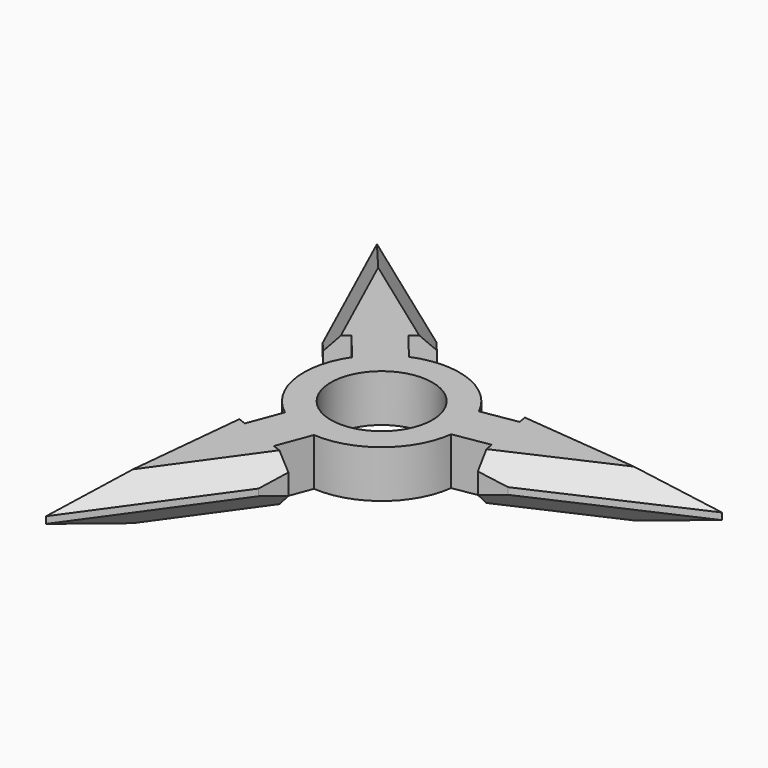
from build123d import *

# Parameters (mm, degrees)
F0_R     = 7.5
F1_DEPTH = 7
F2_SIZE  = 3


with BuildPart() as f1:
    # F0 (on Top) → F1 (new body)
    with BuildSketch(Plane.XY):
        with BuildLine():
            ThreePointArc((-10.511182, -17.658973), (-13.748709, -16.949262), (-16.649365, -15.345681))
            Line((-16.649365, -15.345681), (-18.546154, -20.3787))
            Line((-18.546154, -20.3787), (-21.615246, -19.222054))
            Line((-21.615246, -19.222054), (-23.025871, -22.965066))
            Line((-23.025871, -22.965066), (-25.562697, -48.296984))
            Line((-25.562697, -48.296984), (-10.749504, -27.591649))
            Line((-10.749504, -27.591649), (-9.338879, -23.848637))
            Line((-9.338879, -23.848637), (-12.407971, -22.691992))
            Line((-12.407971, -22.691992), (-10.511182, -17.658973))
        make_face()
        with BuildLine():
            Line((5.95703, -0.287253), (0.649913, -1.161095))
            ThreePointArc((0.649913, -1.161095), (1.513876, -3.608894), (1.806839, -6.188103))
            ThreePointArc((1.806839, -6.188103), (1.784015, -6.912271), (1.715636, -7.633564))
            Line((1.715636, -7.633564), (7.022752, -6.759722))
            Line((7.022752, -6.759722), (7.555614, -9.995956))
            Line((7.555614, -9.995956), (11.502469, -9.346088))
            Line((11.502469, -9.346088), (34.708967, 1.122916))
            Line((34.708967, 1.122916), (9.371024, 3.598849))
            Line((9.371024, 3.598849), (5.424169, 2.948981))
            Line((5.424169, 2.948981), (5.95703, -0.287253))
        make_face()
        with BuildLine():
            Line((-22.628543, 4.414934), (-19.218215, 0.255757))
            ThreePointArc((-19.218215, 0.255757), (-16.984824, 2.704683), (-14.145754, 4.414934))
            Line((-14.145754, 4.414934), (-17.556082, 8.574111))
            Line((-17.556082, 8.574111), (-15.019851, 10.6537))
            Line((-15.019851, 10.6537), (-17.556082, 13.746843))
            Line((-17.556082, 13.746843), (-38.225754, 28.609758))
            Line((-38.225754, 28.609758), (-27.701004, 5.428489))
            Line((-27.701004, 5.428489), (-25.164773, 2.335346))
            Line((-25.164773, 2.335346), (-22.628543, 4.414934))
        make_face()
        with BuildLine():
            Line((-22.628543, 4.414934), (-19.218215, 0.255757))
            ThreePointArc((-19.218215, 0.255757), (-16.984824, 2.704683), (-14.145754, 4.414934))
            Line((-14.145754, 4.414934), (-17.556082, 8.574111))
            Line((-17.556082, 8.574111), (-15.019851, 10.6537))
            Line((-15.019851, 10.6537), (-17.556082, 13.746843))
            Line((-17.556082, 13.746843), (-38.225754, 28.609758))
            Line((-38.225754, 28.609758), (-27.701004, 5.428489))
            Line((-27.701004, 5.428489), (-25.164773, 2.335346))
            Line((-25.164773, 2.335346), (-22.628543, 4.414934))
        make_face()
        with BuildLine():
            Line((-22.628543, 4.414934), (-19.218215, 0.255757))
            ThreePointArc((-19.218215, 0.255757), (-16.984824, 2.704683), (-14.145754, 4.414934))
            Line((-14.145754, 4.414934), (-17.556082, 8.574111))
            Line((-17.556082, 8.574111), (-15.019851, 10.6537))
            Line((-15.019851, 10.6537), (-17.556082, 13.746843))
            Line((-17.556082, 13.746843), (-38.225754, 28.609758))
            Line((-38.225754, 28.609758), (-27.701004, 5.428489))
            Line((-27.701004, 5.428489), (-25.164773, 2.335346))
            Line((-25.164773, 2.335346), (-22.628543, 4.414934))
        make_face()
        with BuildLine():
            Line((-22.628543, 4.414934), (-19.218215, 0.255757))
            ThreePointArc((-19.218215, 0.255757), (-16.984824, 2.704683), (-14.145754, 4.414934))
            Line((-14.145754, 4.414934), (-17.556082, 8.574111))
            Line((-17.556082, 8.574111), (-15.019851, 10.6537))
            Line((-15.019851, 10.6537), (-17.556082, 13.746843))
            Line((-17.556082, 13.746843), (-38.225754, 28.609758))
            Line((-38.225754, 28.609758), (-27.701004, 5.428489))
            Line((-27.701004, 5.428489), (-25.164773, 2.335346))
            Line((-25.164773, 2.335346), (-22.628543, 4.414934))
        make_face()
        with BuildLine():
            ThreePointArc((-14.145754, 4.414934), (-16.984824, 2.704683), (-19.218215, 0.255757))
            ThreePointArc((-19.218215, 0.255757), (-21.040372, -8.056475), (-16.649365, -15.345681))
            ThreePointArc((-16.649365, -15.345681), (-13.748709, -16.949262), (-10.511182, -17.658973))
            ThreePointArc((-10.511182, -17.658973), (-2.401499, -15.08089), (1.715636, -7.633564))
            ThreePointArc((1.715636, -7.633564), (1.784015, -6.912271), (1.806839, -6.188103))
            ThreePointArc((1.806839, -6.188103), (1.513876, -3.608894), (0.649913, -1.161095))
            ThreePointArc((0.649913, -1.161095), (-5.637613, 4.573055), (-14.145754, 4.414934))
        make_face()
        with Locations((-9.693161, -6.188103)):
            Circle(F0_R, mode=Mode.SUBTRACT)
        with BuildLine():
            ThreePointArc((-10.511182, -17.658973), (-13.748709, -16.949262), (-16.649365, -15.345681))
            Line((-16.649365, -15.345681), (-18.546154, -20.3787))
            Line((-18.546154, -20.3787), (-21.615246, -19.222054))
            Line((-21.615246, -19.222054), (-23.025871, -22.965066))
            Line((-23.025871, -22.965066), (-25.562697, -48.296984))
            Line((-25.562697, -48.296984), (-10.749504, -27.591649))
            Line((-10.749504, -27.591649), (-9.338879, -23.848637))
            Line((-9.338879, -23.848637), (-12.407971, -22.691992))
            Line((-12.407971, -22.691992), (-10.511182, -17.658973))
        make_face()
        with BuildLine():
            ThreePointArc((-14.145754, 4.414934), (-16.984824, 2.704683), (-19.218215, 0.255757))
            ThreePointArc((-19.218215, 0.255757), (-21.040372, -8.056475), (-16.649365, -15.345681))
            ThreePointArc((-16.649365, -15.345681), (-13.748709, -16.949262), (-10.511182, -17.658973))
            ThreePointArc((-10.511182, -17.658973), (-2.401499, -15.08089), (1.715636, -7.633564))
            ThreePointArc((1.715636, -7.633564), (1.784015, -6.912271), (1.806839, -6.188103))
            ThreePointArc((1.806839, -6.188103), (1.513876, -3.608894), (0.649913, -1.161095))
            ThreePointArc((0.649913, -1.161095), (-5.637613, 4.573055), (-14.145754, 4.414934))
        make_face()
        with Locations((-9.693161, -6.188103)):
            Circle(F0_R, mode=Mode.SUBTRACT)
        with BuildLine():
            ThreePointArc((-14.145754, 4.414934), (-16.984824, 2.704683), (-19.218215, 0.255757))
            ThreePointArc((-19.218215, 0.255757), (-21.040372, -8.056475), (-16.649365, -15.345681))
            ThreePointArc((-16.649365, -15.345681), (-13.748709, -16.949262), (-10.511182, -17.658973))
            ThreePointArc((-10.511182, -17.658973), (-2.401499, -15.08089), (1.715636, -7.633564))
            ThreePointArc((1.715636, -7.633564), (1.784015, -6.912271), (1.806839, -6.188103))
            ThreePointArc((1.806839, -6.188103), (1.513876, -3.608894), (0.649913, -1.161095))
            ThreePointArc((0.649913, -1.161095), (-5.637613, 4.573055), (-14.145754, 4.414934))
        make_face()
        with Locations((-9.693161, -6.188103)):
            Circle(F0_R, mode=Mode.SUBTRACT)
    extrude(amount=F1_DEPTH)

    # F2
    f2_edges = [f1.edges().sort_by_distance(p)[0] for p in [
        (22.039996, 2.360883, 0),
        (23.105718, -4.111586, 0),
        (22.039996, 2.360883, 7),
        (-18.1561, -37.944317, 0),
        (-24.294284, -35.631025, 0),
        (-32.963379, 17.019123, 0),
        (-27.890918, 21.1783, 0),
        (-18.1561, -37.944317, 7),
        (-24.294284, -35.631025, 7),
        (23.105718, -4.111586, 7),
        (-27.890918, 21.1783, 7),
        (-32.963379, 17.019123, 7),
    ]]
    chamfer(f2_edges, length=F2_SIZE)


solid = f1.part
